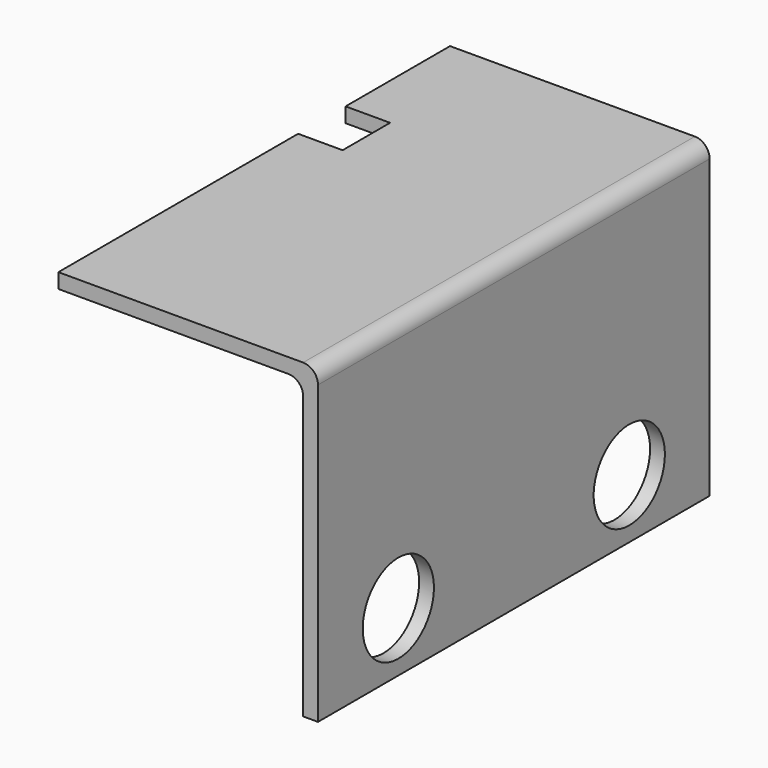
from build123d import *

# Parameters (mm, degrees)
PAD_DEPTH            = 82.5
SKETCH001_W          = 25
SKETCH001_H          = 20
POCKET_DEPTH         = 100.001
POCKET_DEPTH_BACK    = -5.001
SKETCH002_R          = 15
POCKET001_DEPTH      = 82.501
POCKET001_DEPTH_BACK = -5.001


with BuildPart() as part:
    # Sketch → Pad (new body, symmetric)
    with BuildSketch(Plane.XZ):
        with BuildLine():
            Line((-82.5, 0), (-5, 0))
            ThreePointArc((0, -5), (-1.464466, -1.464466), (-5, 0))
            Line((0, -5), (0, -100))
            Line((5, -100), (0, -100))
            Line((5, 0), (5, -100))
            ThreePointArc((5, 0), (3.535534, 3.535534), (0, 5))
            Line((-82.5, 5), (0, 5))
            Line((-82.5, 0), (-82.5, 5))
        make_face()
    extrude(amount=PAD_DEPTH, both=True)

    # Sketch001 → Pocket (cut, two sides)
    with BuildSketch(Plane.XY) as pocket_sk:
        with Locations((-80, 28.5)):
            Rectangle(SKETCH001_W, SKETCH001_H)
    extrude(amount=-POCKET_DEPTH, mode=Mode.SUBTRACT)
    extrude(pocket_sk.sketch, amount=-POCKET_DEPTH_BACK, mode=Mode.SUBTRACT)

    # Sketch002 → Pocket001 (cut, two sides)
    with BuildSketch(Plane.YZ) as pocket001_sk:
        with Locations((-48.65, -80)):
            Circle(SKETCH002_R)
        with Locations((48.65, -80)):
            Circle(SKETCH002_R)
    extrude(amount=-POCKET001_DEPTH, mode=Mode.SUBTRACT)
    extrude(pocket001_sk.sketch, amount=-POCKET001_DEPTH_BACK, mode=Mode.SUBTRACT)


solid = part.part
